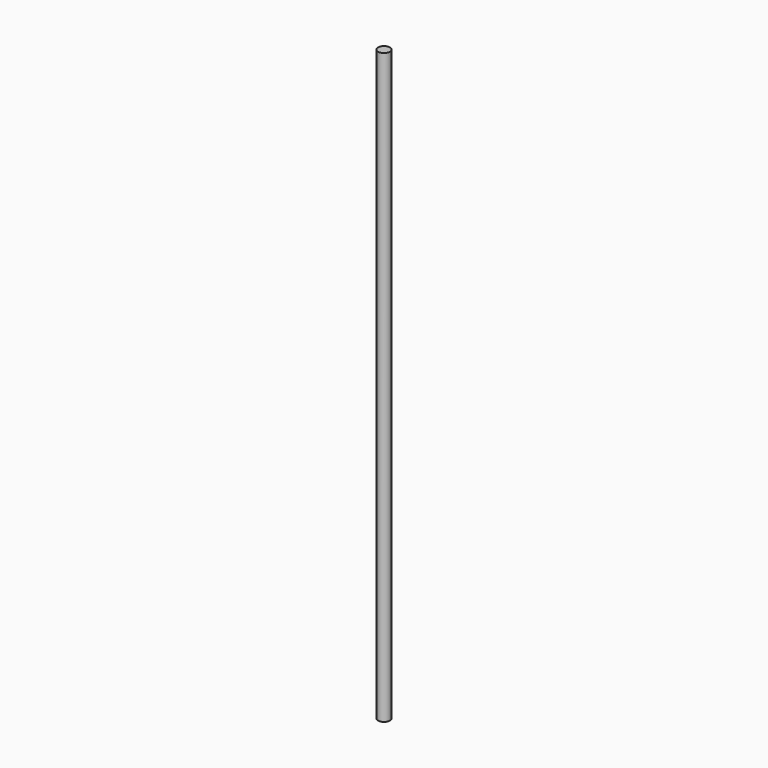
from build123d import *

# Parameters (mm, degrees)
F1_R = 15


with BuildPart() as f2:
    # F2: sweep along a path in F0
    with BuildLine(Plane.YZ) as f2_path:
        Line((0, 0), (0, 1500))
    # F1 (on Top) → F2 (sweep)
    with BuildSketch(Plane.XY):
        Circle(F1_R)
    sweep(path=f2_path.line)


solid = f2.part
